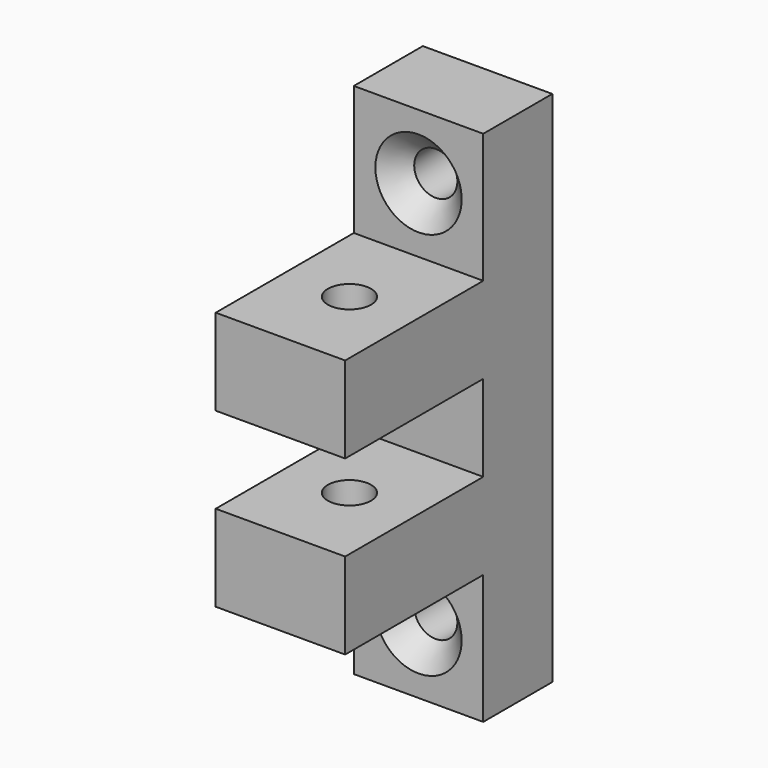
from build123d import *

# Parameters (mm, degrees)
F0_W           = 19.05
F0_H           = 76.2
F1_DEPTH       = 12.7
F2_W           = 19.05
F2_H           = 12.7
F3_DEPTH       = 25.4
F5_D           = 6.35
F7_D           = 6.35
F7_CSINK_D     = 12.7
F7_CSINK_ANGLE = 90


with BuildPart() as f1:
    # F0 (on Front) → F1 (new body)
    with BuildSketch(Plane.XZ):
        Rectangle(F0_W, F0_H)
    extrude(amount=F1_DEPTH)

    # F2 (on face) → F3 (join)
    with BuildSketch(Plane.XZ.offset(12.7)):
        with Locations((0, -12.7)):
            Rectangle(F2_W, F2_H)
        with Locations((0, 12.7)):
            Rectangle(F2_W, F2_H)
    extrude(amount=F3_DEPTH)

    # F5 (through all)
    with Locations(Plane.XY.offset(19.05)):
        with Locations((0, -25.4)):
            Hole(F5_D / 2)

    # F7 (through all)
    with Locations(Plane.XZ.offset(12.7)):
        with Locations((0, 28.575), (0, -28.575)):
            CounterSinkHole(F7_D / 2, F7_CSINK_D / 2, counter_sink_angle=F7_CSINK_ANGLE)


solid = f1.part
